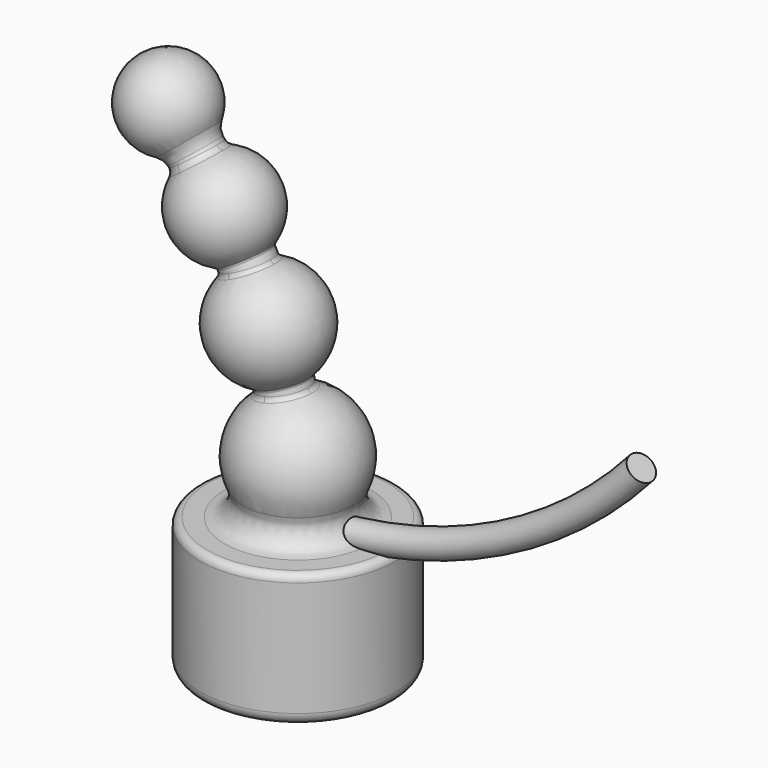
from build123d import *

# Parameters (mm, degrees)
SKETCH006_R           = 5.5
SKETCH008_R           = 10
SKETCH007_R           = 40
EXTRUDE_DEPTH         = 55
FUSION002_PITCH_ANGLE = -90
FILLET_R              = 8
FILLET001_R           = 3
FILLET002_R           = 2
FILLET003_R           = 1
FILLET004_R           = 2
FILLET005_R           = 1
FILLET006_R           = 3
FILLET007_R           = 6
FILLET008_R           = 5


with BuildPart() as sweep_body:
    # Sweep: sweep along a path in Sketch
    with BuildLine(Plane.XZ) as sweep_path:
        ThreePointArc((0, 0), (77.031518, 16.556214), (140.457946, 63.300744))
    # Sketch006 → Sweep (sweep)
    with BuildSketch(Plane(origin=(0, 0, 0), x_dir=(0, -1, 0), z_dir=(-1, 0, 0))):
        Circle(SKETCH006_R)
    sweep(path=sweep_path.line)


with BuildPart() as sweep001:
    # Sweep001: sweep along a path in Sketch
    with BuildLine(Plane.XZ) as sweep001_path:
        ThreePointArc((0, 0), (77.031518, 16.556214), (140.457946, 63.300744))
    # Sketch008 → Sweep001 (sweep)
    with BuildSketch(Plane(origin=(0, 0, 0), x_dir=(0, -1, 0), z_dir=(-1, 0, 0))):
        Circle(SKETCH008_R)
    sweep(path=sweep001_path.line)


with BuildPart() as sphere002:
    # Sphere002 → Sphere002 (revolve)
    with BuildSketch(Plane(origin=(66, 0, 12), x_dir=(1, 0, 0), z_dir=(0, -1, 0))):
        with BuildLine():
            ThreePointArc((0, -22), (22, 0), (0, 22))
            Line((0, 22), (0, -22))
        make_face()
    revolve(axis=Axis((66, 0, 12), (0, 0, 1)))


with BuildPart() as sphere001:
    # Sphere001 → Sphere001 (revolve)
    with BuildSketch(Plane(origin=(102, 0, 30), x_dir=(1, 0, 0), z_dir=(0, -1, 0))):
        with BuildLine():
            ThreePointArc((0, -20), (20, 0), (0, 20))
            Line((0, 20), (0, -20))
        make_face()
    revolve(axis=Axis((102, 0, 30), (0, 0, 1)))


with BuildPart() as sphere003:
    # Sphere003 → Sphere003 (revolve)
    with BuildSketch(Plane(origin=(132, 0, 53), x_dir=(1, 0, 0), z_dir=(0, -1, 0))):
        with BuildLine():
            ThreePointArc((0, -18), (18, 0), (0, 18))
            Line((0, 18), (0, -18))
        make_face()
    revolve(axis=Axis((132, 0, 53), (0, 0, 1)))


with BuildPart() as fusion001:
    # Sphere → Sphere (revolve)
    with BuildSketch(Plane(origin=(22, 0, 0), x_dir=(1, 0, 0), z_dir=(0, -1, 0))):
        with BuildLine():
            ThreePointArc((0, -25), (25, 0), (0, 25))
            Line((0, 25), (0, -25))
        make_face()
    revolve(axis=Axis((22, 0, 0), (0, 0, 1)))

    # Fusion: union Sphere002, Sphere001, Sphere003
    add(sphere002.part)
    add(sphere001.part)
    add(sphere003.part)

    # Fusion001: union Sweep001
    add(sweep001.part)


with BuildPart() as fillet008:
    # Sketch007 → Extrude (new body)
    with BuildSketch(Plane(origin=(0, 0, 0), x_dir=(0, -1, 0), z_dir=(-1, 0, 0))):
        Circle(SKETCH007_R)
    extrude(amount=EXTRUDE_DEPTH)

    # Fusion002: union Fusion001
    add(fusion001.part)


with BuildPart() as fillet008_1:
    # Fusion002 pitch: moved
    add(fillet008.part.rotate(Axis((0, 0, 0), (0, 1, 0)), FUSION002_PITCH_ANGLE))


with BuildPart() as fillet008_2:
    # Fusion002 placement: moved
    add(fillet008_1.part)

    # Fillet
    fillet_edges = [fillet008_2.edges().sort_by_distance(p)[0] for p in [
        (11.874342, 0, 0),
    ]]
    fillet(fillet_edges, radius=FILLET_R)

    # Fillet001
    fillet001_edges = [fillet008_2.edges().sort_by_distance(p)[0] for p in [
        (0, 40, 0),
    ]]
    fillet(fillet001_edges, radius=FILLET001_R)

    # Fillet002
    fillet002_edges = [fillet008_2.edges().sort_by_distance(p)[0] for p in [
        (-12.185419, -7.071088, 42.652246),
    ]]
    fillet(fillet002_edges, radius=FILLET002_R)

    # Fillet003
    fillet003_edges = [fillet008_2.edges().sort_by_distance(p)[0] for p in [
        (-6.071166, 10, 47.322502),
    ]]
    fillet(fillet003_edges, radius=FILLET003_R)

    # Fillet004
    fillet004_edges = [fillet008_2.edges().sort_by_distance(p)[0] for p in [
        (-26.333097, -7.073504, 81.117138),
    ]]
    fillet(fillet004_edges, radius=FILLET004_R)

    # Fillet005
    fillet005_edges = [fillet008_2.edges().sort_by_distance(p)[0] for p in [
        (-21.392696, 10, 86.969554),
    ]]
    fillet(fillet005_edges, radius=FILLET005_R)

    # Fillet006
    fillet006_edges = [fillet008_2.edges().sort_by_distance(p)[0] for p in [
        (-45.91407, -7.072341, 111.834856),
    ]]
    fillet(fillet006_edges, radius=FILLET006_R)

    # Fillet007
    fillet007_edges = [fillet008_2.edges().sort_by_distance(p)[0] for p in [
        (-43.67837, 10, 120.290721),
    ]]
    fillet(fillet007_edges, radius=FILLET007_R)

    # Fillet008
    fillet008_edges = [fillet008_2.edges().sort_by_distance(p)[0] for p in [
        (0, 40, -55),
    ]]
    fillet(fillet008_edges, radius=FILLET008_R)


solid = Compound([sweep_body.part, fillet008_2.part])
